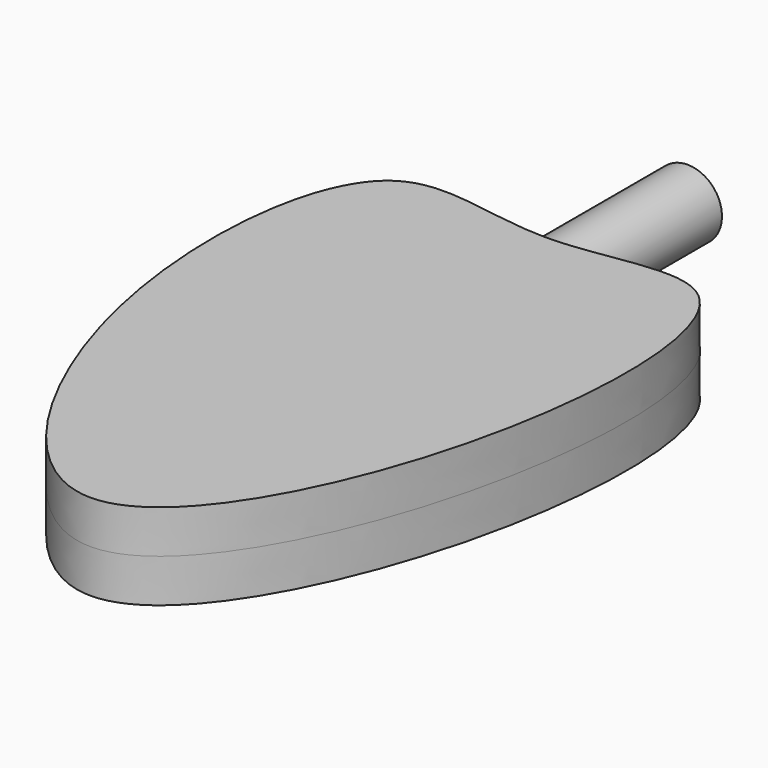
from build123d import *

# Parameters (mm, degrees)
F1_DEPTH = 1.5


with BuildPart() as f1:
    # F0 (on Top) → F1 (new body, symmetric)
    with BuildSketch(Plane.XY):
        with BuildLine():
            add(Edge.make_bspline(
                [(0, 8.6135165766), (-2.0250481209, 8.616765204), (-6.8967533798, 10.8101850303), (-7.848943545, -2.7059601844), (0.1745451704, -15.2681209722), (7.1093377805, -2.391643729), (7.0062214265, 10.7711720497), (2.0250481209, 8.6102679492), (0, 8.6135165766)],
                knots=[0, 0, 0, 0, 0.1296742012, 0.3166938332, 0.5012497625, 0.6857273739, 0.8703257988, 1, 1, 1, 1], degree=3))
        make_face()
    extrude(amount=F1_DEPTH, both=True)


with BuildPart() as f3:
    # F2 (on Top) → F3 (revolve)
    with BuildSketch(Plane.XY):
        Polygon((-1.1927433661, 14.8156252918), (-1.1927433661, 8.8450885607), (0, 8.806612716), (0, 14.8156252918), align=None)
    revolve(axis=Axis((0, 11.8111190039, 0), (0, 1, 0)))


solid = Compound([f1.part, f3.part])
